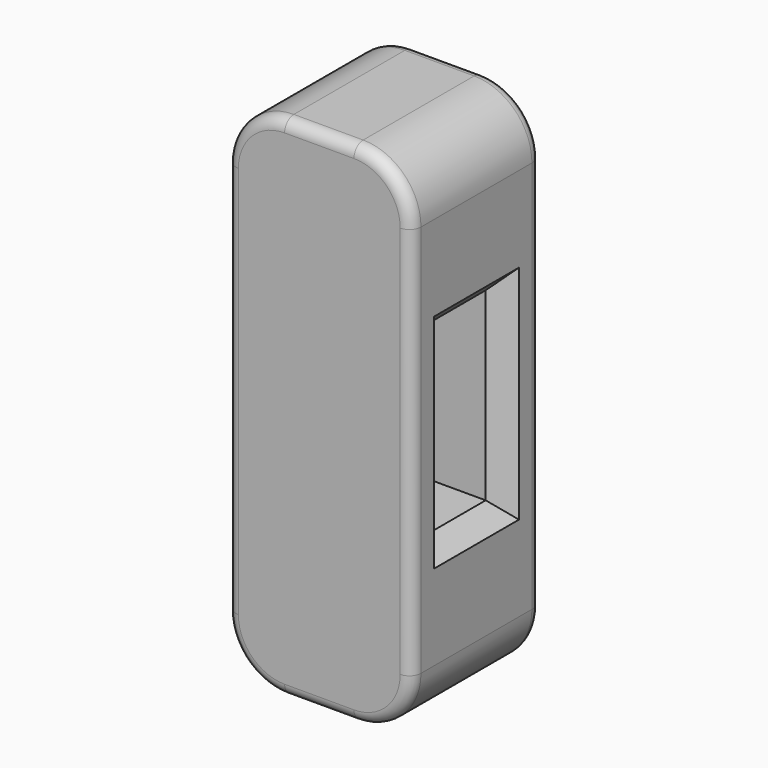
from build123d import *

# Parameters (mm, degrees)
F1_DEPTH = 44.45
F2_R     = 3.175
F4_DEPTH = 50.801
F5_SIZE  = 5.08


with BuildPart() as f1:
    # F0 (on Front) → F1 (new body)
    with BuildSketch(Plane.XZ):
        with BuildLine():
            ThreePointArc((25.4, 53.975), (20.75032, 65.20032), (9.525, 69.85))
            Line((9.525, 69.85), (-9.525, 69.85))
            ThreePointArc((-9.525, 69.85), (-20.75032, 65.20032), (-25.4, 53.975))
            Line((-25.4, 53.975), (-25.4, -53.975))
            ThreePointArc((-25.4, -53.975), (-20.75032, -65.20032), (-9.525, -69.85))
            Line((-9.525, -69.85), (9.525, -69.85))
            ThreePointArc((9.525, -69.85), (20.75032, -65.20032), (25.4, -53.975))
            Line((25.4, -53.975), (25.4, 53.975))
        make_face()
    extrude(amount=F1_DEPTH)

    # F2
    f2_edges = [f1.edges().sort_by_distance(p)[0] for p in [
        (20.75032, -44.45, 65.20032),
        (0, -44.45, 69.85),
        (-20.75032, -44.45, 65.20032),
        (-25.4, -44.45, 0),
        (-20.75032, -44.45, -65.20032),
        (0, -44.45, -69.85),
        (20.75032, -44.45, -65.20032),
        (25.4, -44.45, 0),
        (20.75032, 0, 65.20032),
        (0, 0, 69.85),
        (-20.75032, 0, 65.20032),
        (-25.4, 0, 0),
        (-20.75032, 0, -65.20032),
        (0, 0, -69.85),
        (20.75032, 0, -65.20032),
        (25.4, 0, 0),
    ]]
    fillet(f2_edges, radius=F2_R)

    # F3 (on face) → F4 (cut, through all)
    with BuildSketch(Plane.YZ.offset(25.4)):
        Polygon((-31.75, 25.4), (-31.75, 0), (-31.75, -25.4), (-12.7, -25.4), (-12.7, 25.4), align=None)
    extrude(amount=-F4_DEPTH, mode=Mode.SUBTRACT)

    # F5
    f5_edges = [f1.edges().sort_by_distance(p)[0] for p in [
        (-25.4, -22.225, -25.4),
        (-25.4, -31.75, 0),
        (-25.4, -12.7, 0),
        (-25.4, -22.225, 25.4),
        (25.4, -22.225, -25.4),
        (25.4, -31.75, 0),
        (25.4, -12.7, 0),
        (25.4, -22.225, 25.4),
    ]]
    chamfer(f5_edges, length=F5_SIZE)


solid = f1.part
